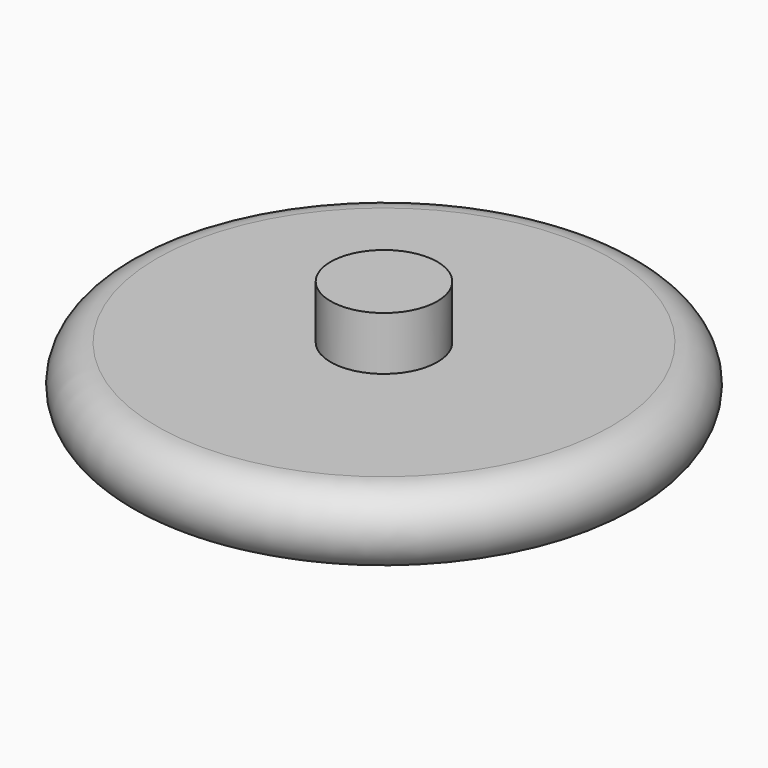
from build123d import *


with BuildPart() as f1:
    # F0 (on Front) → F1 (revolve)
    with BuildSketch(Plane.XZ):
        Polygon((0, 55.734545), (0, 43.012116), (12.69272, 43.012116), (12.69272, 55.761784), align=None)
        with BuildLine():
            Line((0, 43.012116), (0, 25.574893))
            Line((0, 25.574893), (54.058086, 25.574893))
            ThreePointArc((54.058086, 25.574893), (62.776698, 34.293504), (54.058086, 43.012116))
            Line((54.058086, 43.012116), (12.69272, 43.012116))
            Line((12.69272, 43.012116), (0, 43.012116))
        make_face()
    revolve(axis=Axis((0, 0, 27.867272), (0, 0, 1)))

    # F2 (on Front) → F3 (revolve)
    with BuildSketch(Plane.XZ):
        Polygon((0, 25.660992), (0, 0), (57.044424, 26.319558), align=None)
    revolve(axis=Axis((0, 0, 12.830496), (0, 0, 1)))


solid = f1.part
